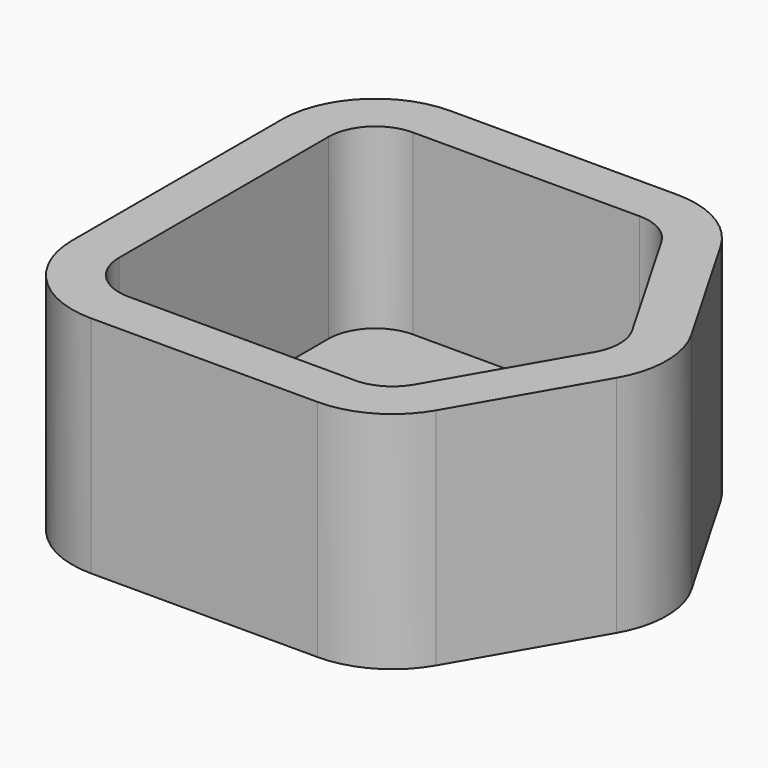
from build123d import *

# Parameters (mm, degrees)
F1_DEPTH = 12
F2_T     = -2.5


with BuildPart() as f1:
    # F0 (on Top) → F1 (new body)
    with BuildSketch(Plane.XY):
        with BuildLine():
            ThreePointArc((5, 12), (1.464466, 10.535534), (0, 7))
            Line((0, 7), (0, 0))
            Line((0, 0), (0, -7))
            ThreePointArc((0, -7), (1.464466, -10.535534), (5, -12))
            Line((5, -12), (17.113249, -12))
            ThreePointArc((17.113249, -12), (19.613249, -11.330127), (21.443376, -9.5))
            Line((21.443376, -9.5), (25.484828, -2.5))
            ThreePointArc((25.484828, -2.5), (26.154701, 0), (25.484828, 2.5))
            Line((25.484828, 2.5), (21.443376, 9.5))
            ThreePointArc((21.443376, 9.5), (19.613249, 11.330127), (17.113249, 12))
            Line((17.113249, 12), (5, 12))
        make_face()
    extrude(amount=F1_DEPTH)

    # F2
    f2_openings = [f1.faces().sort_by_distance(p)[0] for p in [
        (11.952499, 0, 12),
    ]]
    offset(amount=F2_T, openings=f2_openings)


solid = f1.part
